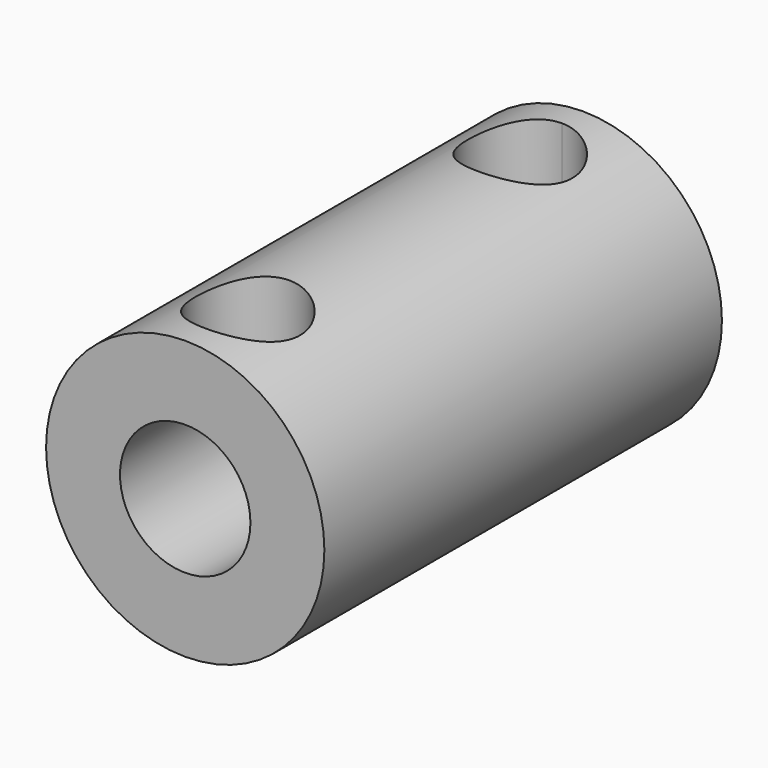
from build123d import *

# Parameters (mm, degrees)
F0_R     = 5.334
F0_R_2   = 2.5
F1_DEPTH = 19.05
F3_DEPTH = 25.4


with BuildPart() as f1:
    # F0 (on Front) → F1 (new body)
    with BuildSketch(Plane.XZ):
        Circle(F0_R)
        Circle(F0_R_2, mode=Mode.SUBTRACT)
    extrude(amount=F1_DEPTH)

    # F2 (on Top) → F3 (cut)
    with BuildSketch(Plane.XY):
        with BuildLine():
            ThreePointArc((0, -18.05), (1.414214, -17.464214), (2, -16.05))
            ThreePointArc((2, -16.05), (-1.414214, -14.635786), (0, -18.05))
        make_face()
        with BuildLine():
            ThreePointArc((0, -1), (-1.414214, -4.414214), (2, -3))
            ThreePointArc((2, -3), (1.414214, -1.585786), (0, -1))
        make_face()
    extrude(amount=F3_DEPTH, mode=Mode.SUBTRACT)


solid = f1.part
